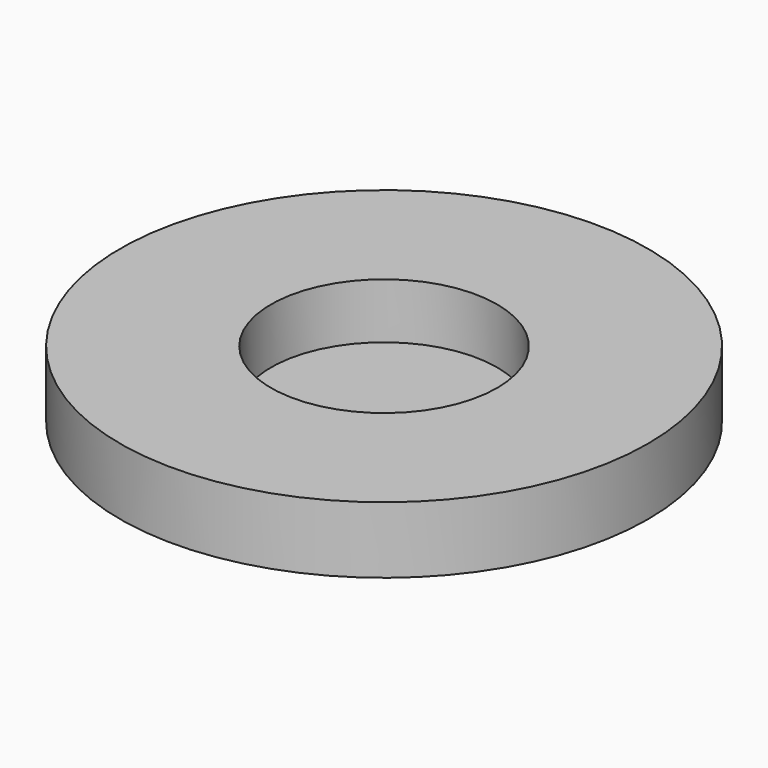
from build123d import *

# Parameters (mm, degrees)
SKETCH_R     = 11.9
PAD_DEPTH    = 3
SKETCH001_R  = 5.1
POCKET_DEPTH = 2.5


with BuildPart() as part:
    # Sketch → Pad (new body)
    with BuildSketch(Plane.XY):
        Circle(SKETCH_R)
    extrude(amount=PAD_DEPTH)

    # Sketch001 (on Face3 of Pad) → Pocket (cut)
    with BuildSketch(Plane.XY.offset(3)):
        Circle(SKETCH001_R)
    extrude(amount=-POCKET_DEPTH, mode=Mode.SUBTRACT)


solid = part.part
